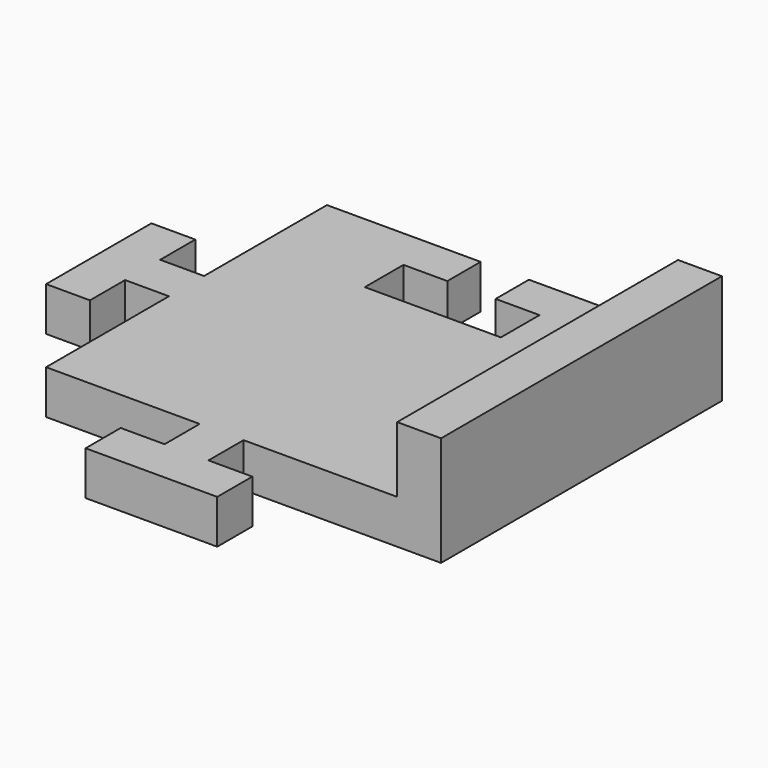
from build123d import *

# Parameters (mm, degrees)
F1_DEPTH = 10
F0_W     = 10
F0_H     = 80
F2_DEPTH = 25


with BuildPart() as f1:
    # F0 (on Top) → F1 (new body)
    with BuildSketch(Plane.XY):
        Polygon((-4.978042, 40), (-40, 40), (-40, 5), (-50, 5), (-50, 15), (-60, 15), (-60, -15), (-50, -15), (-50, -5), (-40, -5), (-40, -40), (-5, -40), (-5, -50), (-15, -50), (-15, -60), (15, -60), (15, -50), (5, -50), (5, -40), (40, -40), (40, 40), (6.021958, 40), (6.021958, 30.516871), (16.021958, 30.516871), (16.021958, 19.516871), (-14.978042, 19.516871), (-14.978042, 30.516871), (-4.978042, 30.516871), align=None)
    extrude(amount=F1_DEPTH)

    # F0 (on Top) → F2 (join)
    with BuildSketch(Plane.XY):
        with Locations((45, 0)):
            Rectangle(F0_W, F0_H)
    extrude(amount=F2_DEPTH)


solid = f1.part
